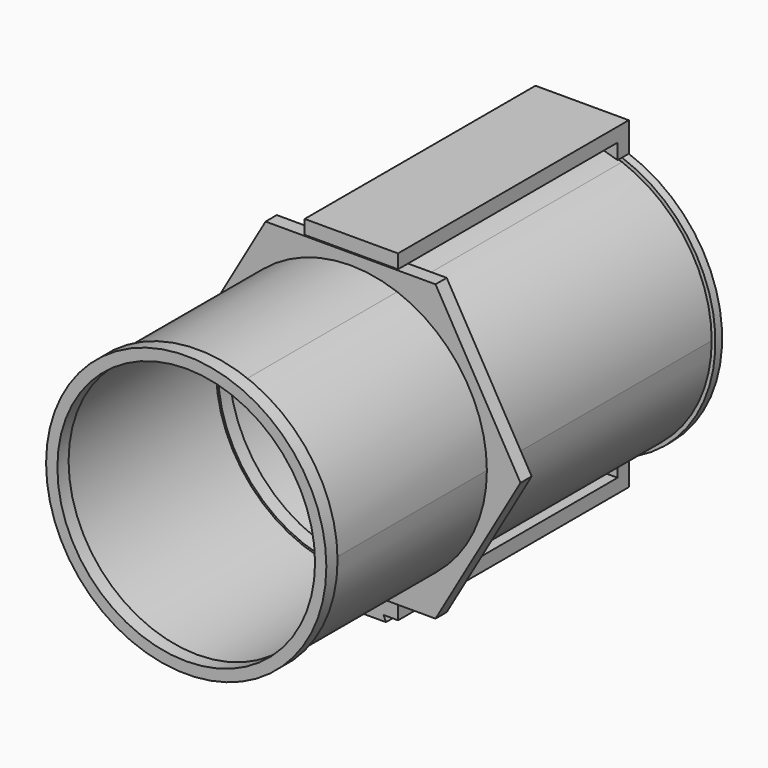
from build123d import *

# Parameters (mm, degrees)
F1_DEPTH  = 530
F0_R      = 50
F0_R_2    = 45
F2_DEPTH  = 9
F3_R      = 150.0861563529
F3_R_2    = 146
F3_R_3    = 144
F3_R_4    = 138
F4_DEPTH  = 15
F5_DEPTH  = 15
F7_R      = 141.9845884843
F8_DEPTH  = 15
F9_W      = 99.9695800245
F9_H      = 293.9526891708
F9_H_2    = 15
F10_DEPTH = 15
F11_W     = 99.9695800245
F11_H     = 308.8312447071
F12_DEPTH = 15
F14_DEPTH = 309
F15_DEPTH = 15
F16_DEPTH = 5
F17_R     = 2


with BuildPart() as f1:
    # F0 (on Front) → F1 (new body)
    with BuildSketch(Plane.XZ):
        with BuildLine():
            Line((50, 135.0407345952), (50, 137.1714255959))
            ThreePointArc((50, 137.1714255959), (0.000857941, 145.9999999975), (-49.9983878734, 137.1720132172))
            Line((-49.9983878734, 137.1720132172), (-49.9983878734, 135.041331488))
            ThreePointArc((-49.9983878734, 135.041331488), (0.0008595396, 143.9999999974), (50, 135.0407345952))
        make_face()
        with BuildLine():
            Line((-49.9983878734, 135.041331488), (-49.9983878734, 137.1720132172))
            ThreePointArc((-49.9983878734, 137.1720132172), (-146, 0), (-49.9983878734, -137.1720132172))
            Line((-49.9983878734, -137.1720132172), (-49.9983878734, -135.041331488))
            ThreePointArc((-49.9983878734, -135.041331488), (-144, 0), (-49.9983878734, 135.041331488))
        make_face()
        with BuildLine():
            ThreePointArc((-49.9983878734, -137.1720132172), (0.000857941, -145.9999999975), (50, -137.1714255959))
            Line((50, -137.1714255959), (50, -135.0407345952))
            ThreePointArc((50, -135.0407345952), (0.0008595396, -143.9999999974), (-49.9983878734, -135.041331488))
            Line((-49.9983878734, -135.041331488), (-49.9983878734, -137.1720132172))
        make_face()
        with BuildLine():
            ThreePointArc((146, 0), (119.6160524344, 83.7137981458), (50, 137.1714255959))
            Line((50, 137.1714255959), (50, 135.0407345952))
            ThreePointArc((50, 135.0407345952), (118.1862936216, 82.2678552048), (144, 0))
            ThreePointArc((144, 0), (118.1862936216, -82.2678552048), (50, -135.0407345952))
            Line((50, -135.0407345952), (50, -137.1714255959))
            ThreePointArc((50, -137.1714255959), (119.6160524344, -83.7137981458), (146, 0))
        make_face()
    extrude(amount=F1_DEPTH)

    # F0 (on Front) → F2 (join)
    with BuildSketch(Plane.XZ):
        with BuildLine():
            ThreePointArc((144, 0), (118.1862936216, 82.2678552048), (50, 135.0407345952))
            ThreePointArc((50, 135.0407345952), (0.0008595396, 143.9999999974), (-49.9983878734, 135.041331488))
            ThreePointArc((-49.9983878734, 135.041331488), (-144, 0), (-49.9983878734, -135.041331488))
            ThreePointArc((-49.9983878734, -135.041331488), (0.0008595396, -143.9999999974), (50, -135.0407345952))
            ThreePointArc((50, -135.0407345952), (118.1862936216, -82.2678552048), (144, 0))
        make_face()
        with BuildLine():
            Line((-59.3256604671, 60), (59.3256604671, 60))
            ThreePointArc((59.3256604671, 60), (62.8611943731, 58.5355339059), (64.3256604671, 55))
            Line((64.3256604671, 55), (64.3256604671, -55))
            ThreePointArc((64.3256604671, -55), (62.8611943731, -58.5355339059), (59.3256604671, -60))
            Line((59.3256604671, -60), (-59.3256604671, -60))
            ThreePointArc((-59.3256604671, -60), (-62.8611943731, -58.5355339059), (-64.3256604671, -55))
            Line((-64.3256604671, -55), (-64.3256604671, 55))
            ThreePointArc((-64.3256604671, 55), (-62.8611943731, 58.5355339059), (-59.3256604671, 60))
        make_face(mode=Mode.SUBTRACT)
        with BuildLine():
            Line((50, 137.1714255959), (50, 141.4213562373))
            ThreePointArc((50, 141.4213562373), (0.0008549575, 149.9999999976), (-49.9983878734, 141.4219261998))
            Line((-49.9983878734, 141.4219261998), (-49.9983878734, 137.1720132172))
            ThreePointArc((-49.9983878734, 137.1720132172), (0.000857941, 145.9999999975), (50, 137.1714255959))
        make_face()
        with BuildLine():
            Line((-49.9983878734, 137.1720132172), (-49.9983878734, 141.4219261998))
            ThreePointArc((-49.9983878734, 141.4219261998), (-150, 0), (-49.9983878734, -141.4219261998))
            Line((-49.9983878734, -141.4219261998), (-49.9983878734, -137.1720132172))
            ThreePointArc((-49.9983878734, -137.1720132172), (-146, 0), (-49.9983878734, 137.1720132172))
        make_face()
        with BuildLine():
            ThreePointArc((-49.9983878734, -141.4219261998), (0.0008549575, -149.9999999976), (50, -141.4213562373))
            Line((50, -141.4213562373), (50, -137.1714255959))
            ThreePointArc((50, -137.1714255959), (0.000857941, -145.9999999975), (-49.9983878734, -137.1720132172))
            Line((-49.9983878734, -137.1720132172), (-49.9983878734, -141.4219261998))
        make_face()
        with BuildLine():
            ThreePointArc((50, -141.4213562373), (122.4744871392, -86.6025403784), (150, 0))
            ThreePointArc((150, 0), (122.4744871392, 86.6025403784), (50, 141.4213562373))
            Line((50, 141.4213562373), (50, 137.1714255959))
            ThreePointArc((50, 137.1714255959), (119.6160524344, 83.7137981458), (146, 0))
            ThreePointArc((146, 0), (119.6160524344, -83.7137981458), (50, -137.1714255959))
            Line((50, -137.1714255959), (50, -141.4213562373))
        make_face()
        with BuildLine():
            ThreePointArc((64.3256604671, 55), (62.8611943731, 58.5355339059), (59.3256604671, 60))
            Line((59.3256604671, 60), (-59.3256604671, 60))
            ThreePointArc((-59.3256604671, 60), (-62.8611943731, 58.5355339059), (-64.3256604671, 55))
            Line((-64.3256604671, 55), (-64.3256604671, -55))
            ThreePointArc((-64.3256604671, -55), (-62.8611943731, -58.5355339059), (-59.3256604671, -60))
            Line((-59.3256604671, -60), (59.3256604671, -60))
            ThreePointArc((59.3256604671, -60), (62.8611943731, -58.5355339059), (64.3256604671, -55))
            Line((64.3256604671, -55), (64.3256604671, 55))
        make_face()
        Circle(F0_R, mode=Mode.SUBTRACT)
        Circle(F0_R)
        Circle(F0_R_2, mode=Mode.SUBTRACT)
    extrude(amount=F2_DEPTH)

    # F3 (on face) → F4 (join)
    with BuildSketch(Plane.XZ.offset(530)):
        Circle(F3_R)
        Circle(F3_R_2, mode=Mode.SUBTRACT)
        Circle(F3_R_2)
        Circle(F3_R_3, mode=Mode.SUBTRACT)
        Circle(F3_R_3)
        Circle(F3_R_4, mode=Mode.SUBTRACT)
    extrude(amount=-F4_DEPTH)

    # F0 (on Front) → F5 (join)
    with BuildSketch(Plane.XZ):
        with BuildLine():
            ThreePointArc((-49.9983878734, 141.4219261998), (0.0008549575, 149.9999999976), (50, 141.4213562373))
            Line((50, 141.4213562373), (50, 158))
            Line((50, 158), (-49.9983878734, 158))
            Line((-49.9983878734, 158), (-49.9983878734, 141.4219261998))
        make_face()
        with BuildLine():
            Line((50, -158), (50, -141.4213562373))
            ThreePointArc((50, -141.4213562373), (0.0008549575, -149.9999999976), (-49.9983878734, -141.4219261998))
            Line((-49.9983878734, -141.4219261998), (-49.9983878734, -158))
            Line((-49.9983878734, -158), (-34.5, -158))
            Line((-34.5, -158), (34.5, -158))
            Line((34.5, -158), (50, -158))
        make_face()
    extrude(amount=F5_DEPTH)

    # F7 (on offset) → F8 (join)
    with BuildSketch(Plane.XZ.offset(310)):
        Polygon((-91, 157.6166234888), (-182, 0), (-91, -157.6166234888), (91, -157.6166234888), (182, 0), (91, 157.6166234888), align=None)
        Circle(F7_R, mode=Mode.SUBTRACT)
    extrude(amount=-F8_DEPTH)

    # F9 (on face) → F10 (join)
    with BuildSketch(Plane.XY.offset(158)):
        with Locations((0.0152099878, -161.9763445854)):
            Rectangle(F9_W, F9_H)
        with Locations((0.0152099878, -7.5)):
            Rectangle(F9_W, F9_H_2)
    extrude(amount=F10_DEPTH)

    # F11 (on face) → F12 (join)
    with BuildSketch(Plane(origin=(0, 0, -158), x_dir=(1, 0, 0), z_dir=(0, 0, -1))):
        with Locations((0.0152099878, 154.4156223536)):
            Rectangle(F11_W, F11_H)
    extrude(amount=F12_DEPTH)

    # F13 (on face) → F14 (join)
    with BuildSketch(Plane.XZ.offset(308.8312447071)):
        Polygon((37, -179), (34.5, -173), (-34.5, -173), (-37, -179), align=None)
    extrude(amount=-F14_DEPTH)

    # F0 (on Front) → F15 (join)
    with BuildSketch(Plane.XZ):
        Circle(F0_R)
        Circle(F0_R_2, mode=Mode.SUBTRACT)
    extrude(amount=-F15_DEPTH)

    # F0 (on Front) → F16 (join)
    with BuildSketch(Plane.XZ):
        with BuildLine():
            ThreePointArc((64.3256604671, 55), (62.8611943731, 58.5355339059), (59.3256604671, 60))
            Line((59.3256604671, 60), (-59.3256604671, 60))
            ThreePointArc((-59.3256604671, 60), (-62.8611943731, 58.5355339059), (-64.3256604671, 55))
            Line((-64.3256604671, 55), (-64.3256604671, -55))
            ThreePointArc((-64.3256604671, -55), (-62.8611943731, -58.5355339059), (-59.3256604671, -60))
            Line((-59.3256604671, -60), (59.3256604671, -60))
            ThreePointArc((59.3256604671, -60), (62.8611943731, -58.5355339059), (64.3256604671, -55))
            Line((64.3256604671, -55), (64.3256604671, 55))
        make_face()
        Circle(F0_R, mode=Mode.SUBTRACT)
    extrude(amount=-F16_DEPTH)

    # F17
    f17_edges = [f1.edges().sort_by_distance(p)[0] for p in [
        (64.32566, 5, 0),
        (0, 5, 60),
        (-64.32566, 5, 0),
        (0, 5, -60),
        (-50, 5, 0),
    ]]
    fillet(f17_edges, radius=F17_R)


solid = f1.part
